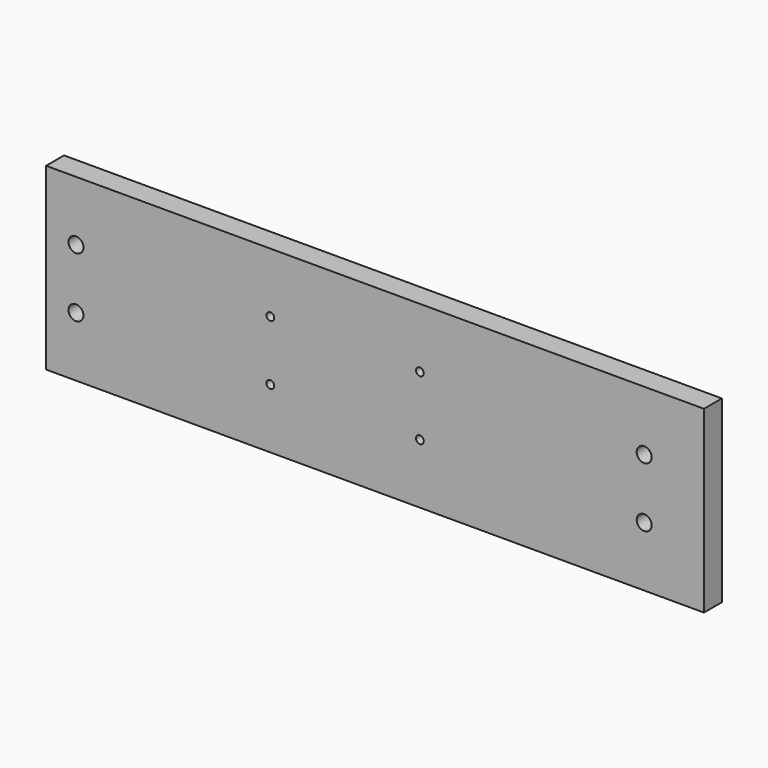
from build123d import *

# Parameters (mm, degrees)
F0_W     = 279.4
F0_H     = 76.2
F0_R     = 3.175
F0_R_2   = 1.651
F1_DEPTH = 9.525


with BuildPart() as f1:
    # F0 (on Front) → F1 (new body)
    with BuildSketch(Plane.XZ):
        with Locations((139.7, 38.1)):
            Rectangle(F0_W, F0_H)
        with Locations((12.7, 25.4)):
            Circle(F0_R, mode=Mode.SUBTRACT)
        with Locations((95.25, 25.4)):
            Circle(F0_R_2, mode=Mode.SUBTRACT)
        with Locations((158.75, 25.4)):
            Circle(F0_R_2, mode=Mode.SUBTRACT)
        with Locations((254, 25.4)):
            Circle(F0_R, mode=Mode.SUBTRACT)
        with Locations((12.7, 50.8)):
            Circle(F0_R, mode=Mode.SUBTRACT)
        with Locations((95.25, 50.8)):
            Circle(F0_R_2, mode=Mode.SUBTRACT)
        with Locations((158.75, 50.8)):
            Circle(F0_R_2, mode=Mode.SUBTRACT)
        with Locations((254, 50.8)):
            Circle(F0_R, mode=Mode.SUBTRACT)
    extrude(amount=F1_DEPTH)


solid = f1.part
